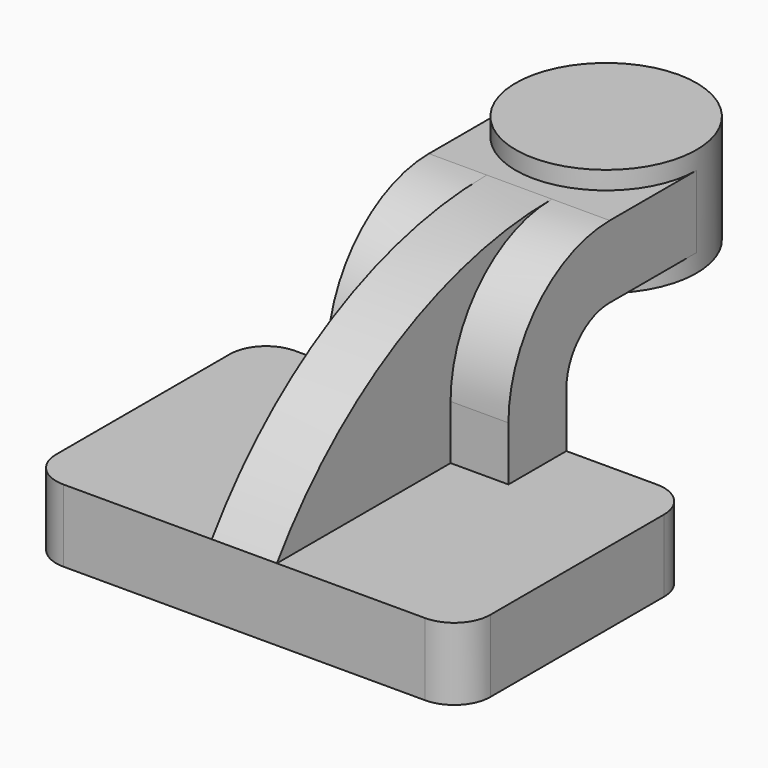
from build123d import *

# Parameters (mm, degrees)
F1_DEPTH = 60
F2_DEPTH = 9
F0_W     = 25
F0_H     = 20
F3_DEPTH = 25
F5_R     = 10


with BuildPart() as f1:
    # F0 (on Right) → F1 (new body, symmetric)
    with BuildSketch(Plane.YZ):
        Polygon((0, 20), (0, 0), (80, 0), (80, 20), (60, 20), align=None)
    extrude(amount=F1_DEPTH, both=True)

    # F0 (on Right) → F2 (join, symmetric)
    with BuildSketch(Plane.YZ):
        with BuildLine():
            ThreePointArc((95, 70), (41.322724, 56.736825), (0, 20))
            Line((0, 20), (60, 20))
            Line((60, 20), (60, 35))
            ThreePointArc((60, 35), (70.251263, 59.748737), (95, 70))
        make_face()
    extrude(amount=F2_DEPTH, both=True)

    # F0 (on Right) → F3 (join, symmetric)
    with BuildSketch(Plane.YZ):
        with BuildLine():
            Line((60, 20), (80, 20))
            Line((80, 20), (80, 35))
            ThreePointArc((80, 35), (84.393398, 45.606602), (95, 50))
            Line((95, 50), (100, 50))
            Line((100, 50), (100, 70))
            Line((100, 70), (95, 70))
            ThreePointArc((95, 70), (70.251263, 59.748737), (60, 35))
            Line((60, 35), (60, 20))
        make_face()
        with Locations((112.5, 60)):
            Rectangle(F0_W, F0_H)
    extrude(amount=F3_DEPTH, both=True)

    # F0 (on Right) → F4 (revolve)
    with BuildSketch(Plane.YZ):
        Polygon((125, 75), (125, 70), (125, 50), (125, 45), (150, 45), (150, 75), align=None)
    revolve(axis=Axis((0, 125, 47.5), (0, 0, -1)))

    # F5
    f5_edges = [f1.edges().sort_by_distance(p)[0] for p in [
        (60, 0, 10),
        (60, 80, 10),
        (-60, 80, 10),
        (-60, 0, 10),
    ]]
    fillet(f5_edges, radius=F5_R)


solid = f1.part
